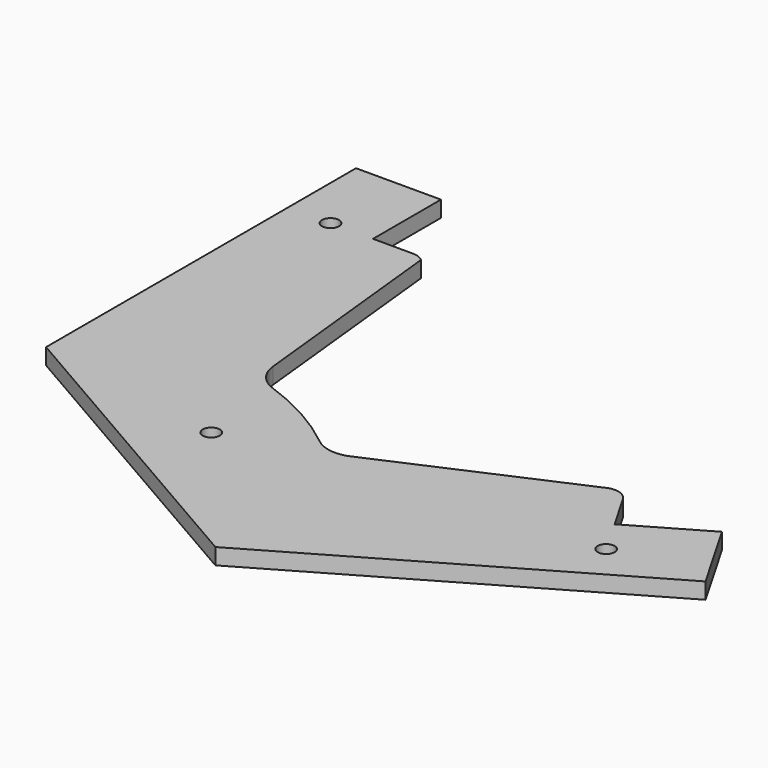
from build123d import *

# Parameters (mm, degrees)
F0_R     = 5
F1_DEPTH = 9.5


with BuildPart() as f1:
    # F0 (on Top) → F1 (new body)
    with BuildSketch(Plane.XY):
        with BuildLine():
            ThreePointArc((251.4837984218, 174.4078397694), (245.9373500957, 178.9093807212), (238.8024981834, 178.5617484971))
            Line((238.8024981834, 178.5617484971), (139.4635551595, 134.9226100063))
            Line((139.4635551595, 134.9226100063), (127.3100964327, 129.5836517652))
            ThreePointArc((127.3100964327, 129.5836517652), (116.6299314638, 128.0692059728), (106.7166346632, 132.3219717036))
            ThreePointArc((106.7166346632, 132.3219717036), (82.8740793121, 148.410763694), (56.6604115001, 160.2496949469))
            ThreePointArc((56.6604115001, 160.2496949469), (47.6215255634, 166.7206128225), (43.4338375319, 177.0180642585))
            Line((43.4338375319, 177.0180642585), (30.2674388345, 302.399259814))
            ThreePointArc((30.2674388345, 302.399259814), (27.1466203514, 304.3271806603), (23.5405558858, 305))
            Line((23.5405558858, 305), (-0.0569906184, 305))
            Line((-0.0569906184, 305), (-0.0663333427, 305))
            Line((-0.0663333427, 305), (-0.0663333427, 355))
            Line((-0.0663333427, 355), (-50.0663333427, 355))
            Line((-50.0663333427, 355), (-50.0663333427, 127.0140681159))
            Line((-50.0663333427, 127.0140681159), (134.9963067562, 20.2325334796))
            Line((134.9963067562, 20.2325334796), (332.3060807422, 134.1985475298))
            Line((332.3060807422, 134.1985475298), (307.2979901421, 177.495145601))
            Line((307.2979901421, 177.495145601), (264.1092482344, 152.5493526602))
            Line((264.1092482344, 152.5493526602), (251.4837984218, 174.4078397694))
        make_face()
        with BuildLine():
            ThreePointArc((59.8321268024, 103.7222201288), (59.8304304841, 112.3828004264), (67.3309958809, 108.0529998887))
            ThreePointArc((67.3309958809, 108.0529998887), (64.8315612777, 103.723199351), (59.8321268024, 103.7222201288))
        make_face(mode=Mode.SUBTRACT)
        with Locations((276.5054373709, 130.8387559654)):
            Circle(F0_R, mode=Mode.SUBTRACT)
        with Locations((-25.0663333427, 305)):
            Circle(F0_R, mode=Mode.SUBTRACT)
        Polygon((-0.0663333427, 305), (-0.0569906184, 305), (-0.0663333427, 355), align=None)
    extrude(amount=F1_DEPTH)


solid = f1.part
